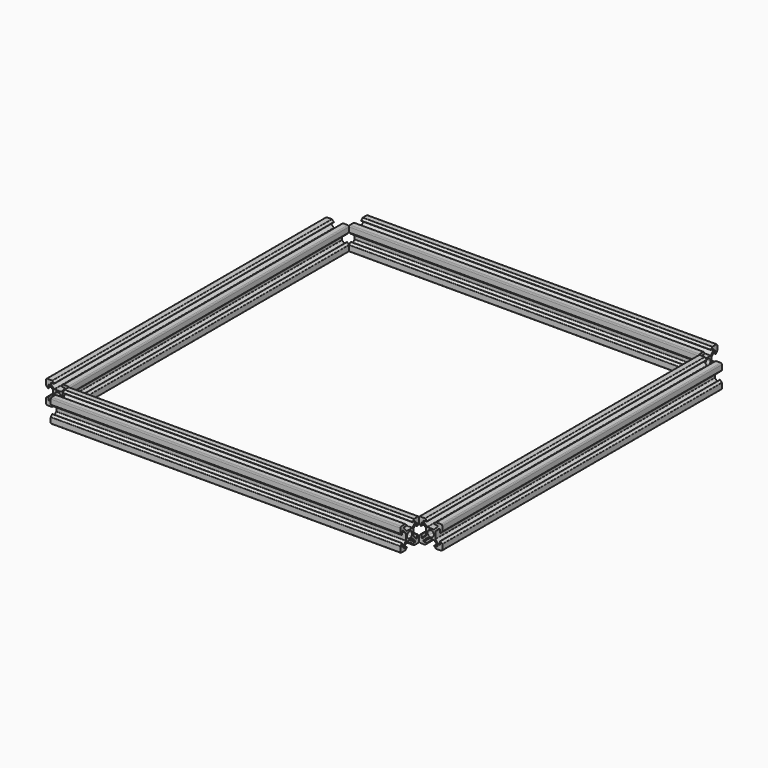
from build123d import *

# Parameters (mm, degrees)
PAD_DEPTH                          = 150
PAD_MIRRORED_2_DEPTH               = 150
PAD_MIRRORED001_2_DEPTH            = 150
PAD_MIRRORED_2_MIRRORED001_2_DEPTH = 150
BODY_PLACEMENT_ANGLE               = 90
ARRAY002_COUNT                     = 4


with BuildPart() as array002:
    # Sketch → Pad (new body, symmetric)
    with BuildSketch(Plane.XY):
        with BuildLine():
            ThreePointArc((-9, 10), (-9.382683, 9.92388), (-9.707107, 9.707107))
            Line((-9.707107, 9.707107), (-1.944544, 1.944544))
            ThreePointArc((0, 2.75), (-1.052379, 2.540669), (-1.944544, 1.944544))
            Line((0, 2.75), (0, 4))
            Line((-2.732233, 4), (0, 4))
            ThreePointArc((-3.085786, 4.146447), (-2.923575, 4.03806), (-2.732233, 4))
            Line((-5.853553, 6.914214), (-3.085786, 4.146447))
            ThreePointArc((-6, 7.267767), (-5.96194, 7.076425), (-5.853553, 6.914214))
            Line((-6, 7.75), (-6, 7.267767))
            ThreePointArc((-5.75, 8), (-5.926777, 7.926777), (-6, 7.75))
            Line((-3.3, 8), (-5.75, 8))
            ThreePointArc((-3.3, 8), (-3.06903, 8.154329), (-3.123223, 8.426777))
            Line((-4.55, 9.853553), (-3.123223, 8.426777))
            ThreePointArc((-4.55, 9.853553), (-4.712212, 9.96194), (-4.903553, 10))
            Line((-9, 10), (-4.903553, 10))
        make_face()
    pad = extrude(amount=PAD_DEPTH, both=True)

    # Sketch Mirrored 2 → Pad Mirrored 2 (add, symmetric)
    with BuildSketch(Plane(origin=(0, 0, 0), x_dir=(0, -1, 0), z_dir=(0, 0, -1))):
        with BuildLine():
            ThreePointArc((-9, 10), (-9.382683, 9.92388), (-9.707107, 9.707107))
            Line((-9.707107, 9.707107), (-1.944544, 1.944544))
            ThreePointArc((0, 2.75), (-1.052379, 2.540669), (-1.944544, 1.944544))
            Line((0, 2.75), (0, 4))
            Line((-2.732233, 4), (0, 4))
            ThreePointArc((-3.085786, 4.146447), (-2.923575, 4.03806), (-2.732233, 4))
            Line((-5.853553, 6.914214), (-3.085786, 4.146447))
            ThreePointArc((-6, 7.267767), (-5.96194, 7.076425), (-5.853553, 6.914214))
            Line((-6, 7.75), (-6, 7.267767))
            ThreePointArc((-5.75, 8), (-5.926777, 7.926777), (-6, 7.75))
            Line((-3.3, 8), (-5.75, 8))
            ThreePointArc((-3.3, 8), (-3.06903, 8.154329), (-3.123223, 8.426777))
            Line((-4.55, 9.853553), (-3.123223, 8.426777))
            ThreePointArc((-4.55, 9.853553), (-4.712212, 9.96194), (-4.903553, 10))
            Line((-9, 10), (-4.903553, 10))
        make_face()
    pad_mirrored_2 = extrude(amount=-PAD_MIRRORED_2_DEPTH, both=True)

    # Sketch Mirrored001 2 → Pad Mirrored001 2 (add, symmetric)
    with BuildSketch(Plane(origin=(0, 0, 0), x_dir=(-1, 0, 0), z_dir=(0, 0, -1))):
        with BuildLine():
            ThreePointArc((-9, 10), (-9.382683, 9.92388), (-9.707107, 9.707107))
            Line((-9.707107, 9.707107), (-1.944544, 1.944544))
            ThreePointArc((0, 2.75), (-1.052379, 2.540669), (-1.944544, 1.944544))
            Line((0, 2.75), (0, 4))
            Line((-2.732233, 4), (0, 4))
            ThreePointArc((-3.085786, 4.146447), (-2.923575, 4.03806), (-2.732233, 4))
            Line((-5.853553, 6.914214), (-3.085786, 4.146447))
            ThreePointArc((-6, 7.267767), (-5.96194, 7.076425), (-5.853553, 6.914214))
            Line((-6, 7.75), (-6, 7.267767))
            ThreePointArc((-5.75, 8), (-5.926777, 7.926777), (-6, 7.75))
            Line((-3.3, 8), (-5.75, 8))
            ThreePointArc((-3.3, 8), (-3.06903, 8.154329), (-3.123223, 8.426777))
            Line((-4.55, 9.853553), (-3.123223, 8.426777))
            ThreePointArc((-4.55, 9.853553), (-4.712212, 9.96194), (-4.903553, 10))
            Line((-9, 10), (-4.903553, 10))
        make_face()
    pad_mirrored001_2 = extrude(amount=-PAD_MIRRORED001_2_DEPTH, both=True)

    # Sketch Mirrored 2 Mirrored001 2 → Pad Mirrored 2 Mirrored001 2 (add, symmetric)
    with BuildSketch(Plane(origin=(0, 0, 0), x_dir=(0, -1, 0), z_dir=(0, 0, 1))):
        with BuildLine():
            ThreePointArc((-9, 10), (-9.382683, 9.92388), (-9.707107, 9.707107))
            Line((-9.707107, 9.707107), (-1.944544, 1.944544))
            ThreePointArc((0, 2.75), (-1.052379, 2.540669), (-1.944544, 1.944544))
            Line((0, 2.75), (0, 4))
            Line((-2.732233, 4), (0, 4))
            ThreePointArc((-3.085786, 4.146447), (-2.923575, 4.03806), (-2.732233, 4))
            Line((-5.853553, 6.914214), (-3.085786, 4.146447))
            ThreePointArc((-6, 7.267767), (-5.96194, 7.076425), (-5.853553, 6.914214))
            Line((-6, 7.75), (-6, 7.267767))
            ThreePointArc((-5.75, 8), (-5.926777, 7.926777), (-6, 7.75))
            Line((-3.3, 8), (-5.75, 8))
            ThreePointArc((-3.3, 8), (-3.06903, 8.154329), (-3.123223, 8.426777))
            Line((-4.55, 9.853553), (-3.123223, 8.426777))
            ThreePointArc((-4.55, 9.853553), (-4.712212, 9.96194), (-4.903553, 10))
            Line((-9, 10), (-4.903553, 10))
        make_face()
    pad_mirrored_2_mirrored001_2 = extrude(amount=PAD_MIRRORED_2_MIRRORED001_2_DEPTH, both=True)

    # Mirrored002: Pad, Pad Mirrored 2, Pad Mirrored001 2, Pad Mirrored 2 Mirrored001 2 across XZ
    add(pad.mirror(Plane.XZ))
    add(pad_mirrored_2.mirror(Plane.XZ))
    add(pad_mirrored001_2.mirror(Plane.XZ))
    add(pad_mirrored_2_mirrored001_2.mirror(Plane.XZ))


with BuildPart() as array002_1:
    # Body placement: moved
    add(array002.part.moved(Location((0, 160, 210))).rotate(Axis((0, 160, 210), (0, 1, 0)), BODY_PLACEMENT_ANGLE))

    # Array002: Array002 ×4 about axis
    array002_axis = Axis((0, 0, 0), (0, 0, 1))


with BuildPart() as array002_2:
    add(array002_1.part)
    for i in range(1, ARRAY002_COUNT):
        add(array002_1.part.rotate(array002_axis, i * 360 / ARRAY002_COUNT))


with BuildPart() as horizontal_extrusions_bottom:
    # Part__Mirroring001: instance of Array002
    add(array002_2.part.mirror(Plane(origin=(0, 0, 0), x_dir=(0, 1, 0), z_dir=(0, 0, 1))))


solid = horizontal_extrusions_bottom.part
